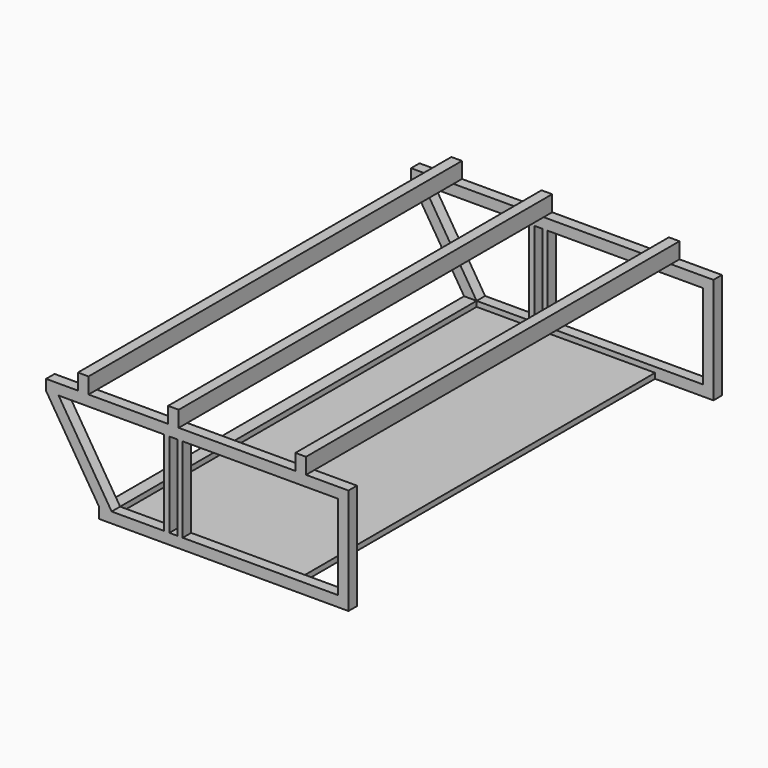
from build123d import *

# Parameters (mm, degrees)
F0_W      = 1447.8
F0_H      = 584.2
F1_DEPTH  = 2235.2
F2_W      = 152.4
F2_H      = 76.2
F2_W_2    = 381
F2_W_3    = 558.8
F2_W_4    = 203.2
F3_DEPTH  = 2235.201
F4_W      = 38.1
F4_H      = 406.4
F5_DEPTH  = 2235.201
F6_W      = 742.95
F6_H      = 406.4
F7_DEPTH  = 2235.201
F8_W      = 2133.6
F8_H      = 457.2
F9_DEPTH  = 1447.801
F10_W     = 152.4
F10_H     = 2133.6
F10_W_2   = 381
F10_W_3   = 558.8
F10_W_4   = 203.2
F11_DEPTH = 127
F13_DEPTH = 25.4
F14_W     = 279.4
F14_H     = 2133.6
F15_DEPTH = 50.801


with BuildPart() as f1:
    # F0 (on Front) → F1 (new body)
    with BuildSketch(Plane.XZ):
        with Locations((-723.9, -292.1)):
            Rectangle(F0_W, F0_H)
    extrude(amount=F1_DEPTH)

    # F2 (on face) → F3 (cut, through all)
    with BuildSketch(Plane.XZ.offset(2235.2)):
        with Locations((-1371.6, -38.1)):
            Rectangle(F2_W, F2_H)
        with Locations((-1054.1, -38.1)):
            Rectangle(F2_W_2, F2_H)
        with Locations((-533.4, -38.1)):
            Rectangle(F2_W_3, F2_H)
        with Locations((-101.6, -38.1)):
            Rectangle(F2_W_4, F2_H)
    extrude(amount=-F3_DEPTH, mode=Mode.SUBTRACT)

    # F4 (on face) → F5 (cut, through all)
    with BuildSketch(Plane.XZ.offset(2235.2)):
        Polygon((-1447.8, -584.2), (-1193.8, -584.2), (-1193.8, -533.4), (-1447.8, -127), align=None)
        Polygon((-882.65, -127), (-1387.89422, -127), (-1133.89422, -533.4), (-882.65, -533.4), align=None)
        with Locations((-838.2, -330.2)):
            Rectangle(F4_W, F4_H)
    extrude(amount=-F5_DEPTH, mode=Mode.SUBTRACT)

    # F6 (on face) → F7 (cut, through all)
    with BuildSketch(Plane.XZ.offset(2235.2)):
        with Locations((-422.275, -330.2)):
            Rectangle(F6_W, F6_H)
    extrude(amount=-F7_DEPTH, mode=Mode.SUBTRACT)

    # F8 (on face) → F9 (cut, through all)
    with BuildSketch(Plane.YZ):
        with Locations((-1117.6, -304.8)):
            Rectangle(F8_W, F8_H)
        with Locations((-1117.6, -304.8)):
            Rectangle(F8_W, F8_H)
    extrude(amount=-F9_DEPTH, mode=Mode.SUBTRACT)

    # F10 (on Top) → F11 (cut)
    with BuildSketch(Plane.XY):
        with Locations((-1371.6, -1117.6)):
            Rectangle(F10_W, F10_H)
        with Locations((-1054.1, -1117.6)):
            Rectangle(F10_W_2, F10_H)
        with Locations((-533.4, -1117.6)):
            Rectangle(F10_W_3, F10_H)
        with Locations((-101.6, -1117.6)):
            Rectangle(F10_W_4, F10_H)
    extrude(amount=-F11_DEPTH, mode=Mode.SUBTRACT)

    # F12 (on face) → F13 (cut)
    with BuildSketch(Plane.XY.offset(-533.4)):
        Polygon((-882.65, -50.8), (-1133.89422, -50.8), (-1133.89422, -2184.4), (-882.65, -2184.4), (-857.25, -2184.4), (-819.15, -2184.4), (-793.75, -2184.4), (-50.8, -2184.4), (-50.8, -50.8), (-793.75, -50.8), (-819.15, -50.8), (-857.25, -50.8), align=None)
    extrude(amount=-F13_DEPTH, mode=Mode.SUBTRACT)

    # F14 (on face) → F15 (cut, through all)
    with BuildSketch(Plane.XY.offset(-533.4)):
        with Locations((-139.7, -1117.6)):
            Rectangle(F14_W, F14_H)
        with Locations((-139.7, -1117.6)):
            Rectangle(F14_W, F14_H)
    extrude(amount=-F15_DEPTH, mode=Mode.SUBTRACT)


solid = f1.part
